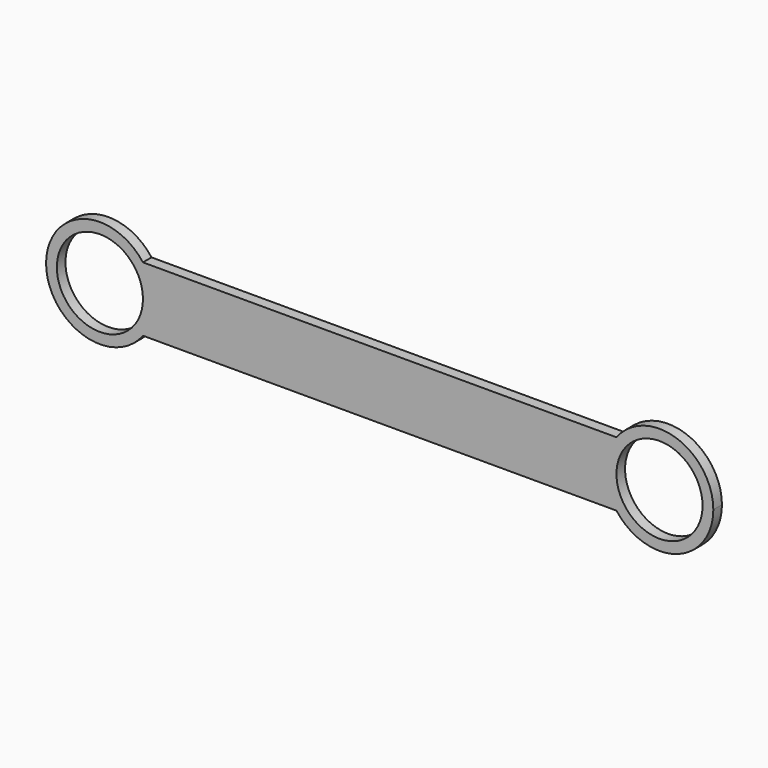
from build123d import *

# Parameters (mm, degrees)
F0_R     = 25.4
F1_DEPTH = 6.35


with BuildPart() as f1:
    # F0 (on Front) → F1 (new body)
    with BuildSketch(Plane.XZ):
        with BuildLine():
            ThreePointArc((-42.59572, -10.614441), (-37.875025, -1.604672), (-36.24572, 8.435559))
            ThreePointArc((-36.24572, 8.435559), (-37.875025, 18.475791), (-42.59572, 27.485559))
            ThreePointArc((-42.59572, 27.485559), (-99.74572, 8.435559), (-42.59572, -10.614441))
        make_face()
        with Locations((-67.99572, 8.435559)):
            Circle(F0_R, mode=Mode.SUBTRACT)
        with BuildLine():
            ThreePointArc((-42.59572, 27.485559), (-37.875025, 18.475791), (-36.24572, 8.435559))
            ThreePointArc((-36.24572, 8.435559), (-37.875025, -1.604672), (-42.59572, -10.614441))
            Line((-42.59572, -10.614441), (236.80428, -10.614441))
            ThreePointArc((236.80428, -10.614441), (230.45428, 8.435559), (236.80428, 27.485559))
            Line((236.80428, 27.485559), (97.10428, 27.485559))
            Line((97.10428, 27.485559), (-42.59572, 27.485559))
        make_face()
        with BuildLine():
            ThreePointArc((236.80428, 27.485559), (230.45428, 8.435559), (236.80428, -10.614441))
            ThreePointArc((236.80428, -10.614441), (272.244512, -21.685135), (293.95428, 8.435559))
            ThreePointArc((293.95428, 8.435559), (272.244512, 38.556254), (236.80428, 27.485559))
        make_face()
        with Locations((262.20428, 8.435559)):
            Circle(F0_R, mode=Mode.SUBTRACT)
    extrude(amount=F1_DEPTH)


solid = f1.part
